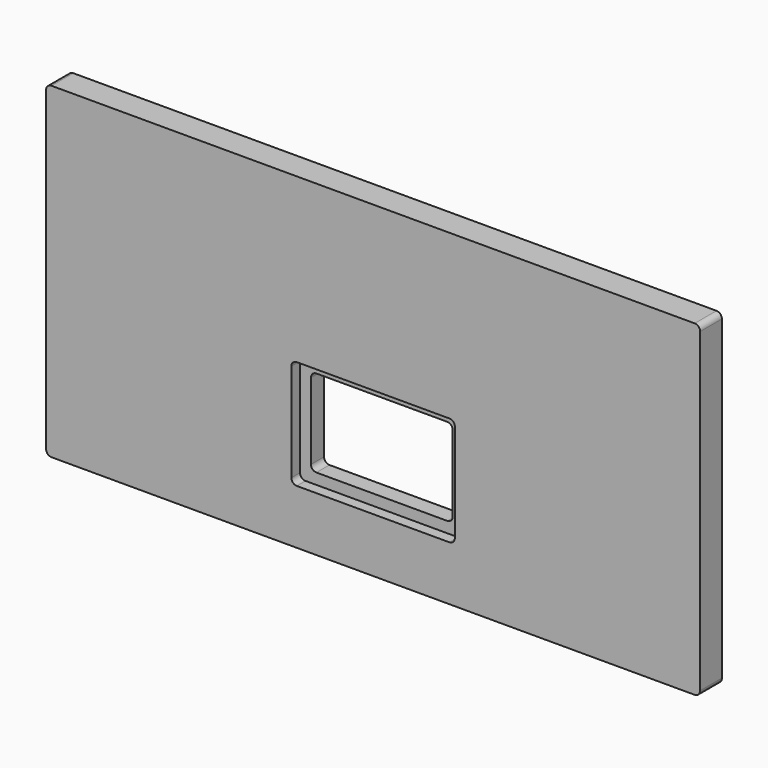
from build123d import *

# Parameters (mm, degrees)
F0_W     = 600
F0_H     = 300
F1_DEPTH = 25
F2_R     = 5
F4_DEPTH = 10
F6_DEPTH = 25


with BuildPart() as f1:
    # F0 (on Front) → F1 (new body)
    with BuildSketch(Plane.XZ):
        Rectangle(F0_W, F0_H)
    extrude(amount=-F1_DEPTH)

    # F2
    f2_edges = [f1.edges().sort_by_distance(p)[0] for p in [
        (300, 12.5, -150),
        (-300, 12.5, -150),
        (300, 12.5, 150),
        (-300, 12.5, 150),
    ]]
    fillet(f2_edges, radius=F2_R)

    # F3 (on face) → F4 (cut)
    with BuildSketch(Plane.XZ):
        with BuildLine():
            Line((-70, -100), (70, -100))
            ThreePointArc((70, -100), (73.535534, -98.535534), (75, -95))
            Line((75, -95), (75, -5))
            ThreePointArc((75, -5), (73.535534, -1.464466), (70, 0))
            Line((70, 0), (-70, 0))
            ThreePointArc((-70, 0), (-73.535534, -1.464466), (-75, -5))
            Line((-75, -5), (-75, -95))
            ThreePointArc((-75, -95), (-73.535534, -98.535534), (-70, -100))
        make_face()
    extrude(amount=-F4_DEPTH, mode=Mode.SUBTRACT)

    # F5 (on face) → F6 (cut)
    with BuildSketch(Plane.XZ.offset(-10)):
        with BuildLine():
            Line((60, -10), (-60, -10))
            ThreePointArc((-60, -10), (-63.535534, -11.464466), (-65, -15))
            Line((-65, -15), (-65, -85))
            ThreePointArc((-65, -85), (-63.535534, -88.535534), (-60, -90))
            Line((-60, -90), (60, -90))
            ThreePointArc((60, -90), (63.535534, -88.535534), (65, -85))
            Line((65, -85), (65, -15))
            ThreePointArc((65, -15), (63.535534, -11.464466), (60, -10))
        make_face()
    extrude(amount=-F6_DEPTH, mode=Mode.SUBTRACT)


solid = f1.part
